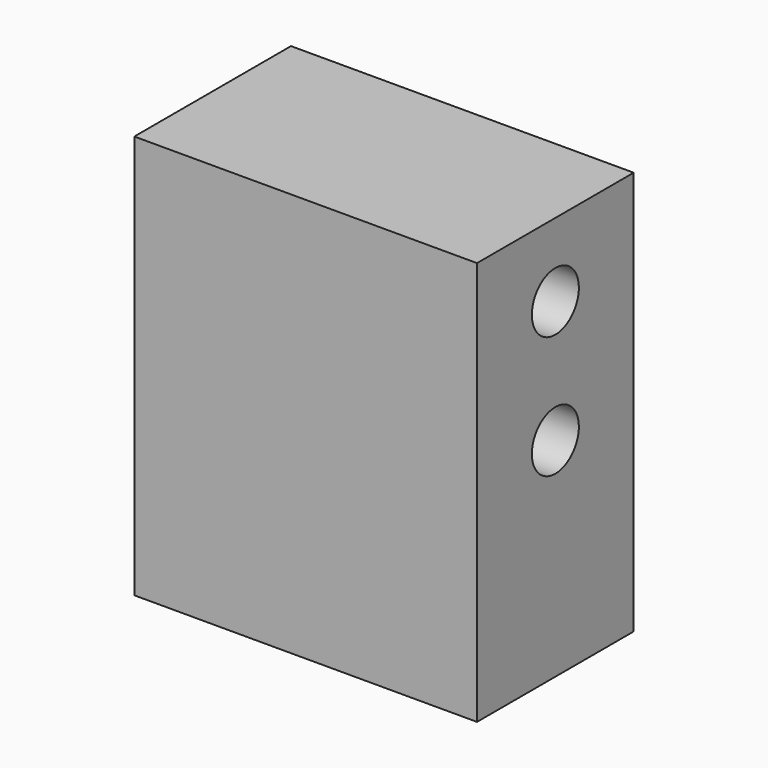
from build123d import *

# Parameters (mm, degrees)
CYLINDER026_R     = 1.2
CYLINDER026_DEPTH = 18.5
CYLINDER027_R     = 1.2
CYLINDER027_DEPTH = 18.5
BOX022_W          = 14
BOX022_H          = 8
BOX022_DEPTH      = 16.5


with BuildPart() as safetybuttonshookscrewcutter:
    # Cylinder026 → Cylinder026 (new body)
    with BuildSketch(Plane(origin=(-28.5, 0, 150.5), x_dir=(0, 0, -1), z_dir=(1, 0, 0))):
        Circle(CYLINDER026_R)
    extrude(amount=CYLINDER026_DEPTH)


with BuildPart() as obj1:
    # Cylinder027 → Cylinder027 (new body)
    with BuildSketch(Plane(origin=(-28.5, 0, 145.5), x_dir=(0, 0, -1), z_dir=(1, 0, 0))):
        Circle(CYLINDER027_R)
    extrude(amount=CYLINDER027_DEPTH)

    # Fusion013: union SafetyButtonsHookScrewCutter
    add(safetybuttonshookscrewcutter.part)


with BuildPart() as obj2:
    # Box022 → Box022 (new body)
    with BuildSketch(Plane(origin=(-28.5, -4, 137), x_dir=(1, 0, 0), z_dir=(0, 0, 1))):
        with Locations((7, 4)):
            Rectangle(BOX022_W, BOX022_H)
    extrude(amount=BOX022_DEPTH)

    # Cut051: cut obj1
    add(obj1.part, mode=Mode.SUBTRACT)


solid = obj2.part
